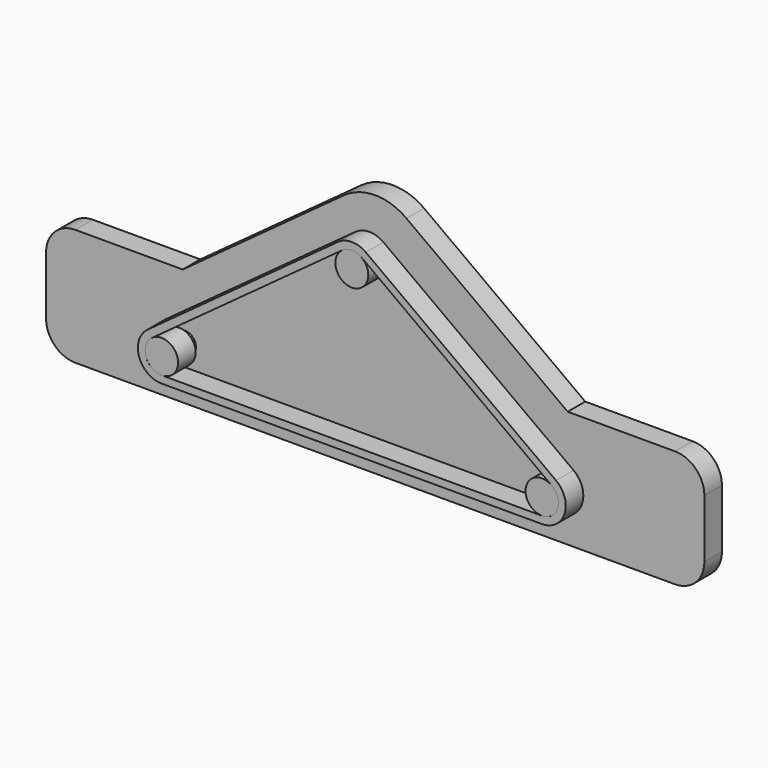
from build123d import *

# Parameters (mm, degrees)
F0_R     = 7.14375
F1_DEPTH = 9.525
F3_DEPTH = 9.525
F4_R     = 4.7625
F5_DEPTH = 12.7
F6_R     = 4.7625
F7_DEPTH = 9.525


with BuildPart() as f1:
    # F0 (on Front) → F1 (new body)
    with BuildSketch(Plane.XZ):
        with Locations((0, 60.325)):
            Circle(F0_R)
        with Locations((-82.55, 0)):
            Circle(F0_R)
        with Locations((82.55, 0)):
            Circle(F0_R)
    extrude(amount=F1_DEPTH)

    # F4 (on face) → F5 (join)
    with BuildSketch(Plane(origin=(0, 0, 0), x_dir=(-1, 0, 0), z_dir=(0, 1, 0))):
        with Locations((-82.55, 0)):
            Circle(F4_R)
        with Locations((82.55, 0)):
            Circle(F4_R)
        with Locations((0, 60.325)):
            Circle(F4_R)
    extrude(amount=F5_DEPTH)


with BuildPart() as f3:
    # F2 (on Front) → F3 (new body, through all)
    with BuildSketch(Plane.XZ):
        with BuildLine():
            Line((-6.088234, 68.656267), (-88.638234, 8.331267))
            ThreePointArc((-88.638234, 8.331267), (-92.359303, -3.202213), (-82.55, -10.31875))
            Line((-82.55, -10.31875), (82.55, -10.31875))
            ThreePointArc((82.55, -10.31875), (92.359303, -3.202213), (88.638234, 8.331267))
            Line((88.638234, 8.331267), (6.088234, 68.656267))
            ThreePointArc((6.088234, 68.656267), (0, 70.64375), (-6.088234, 68.656267))
        make_face()
        with BuildLine():
            ThreePointArc((-82.55, -7.14375), (-89.341056, -2.216917), (-86.764931, 5.7678))
            Line((-86.764931, 5.7678), (-4.214931, 66.0928))
            ThreePointArc((-4.214931, 66.0928), (0, 67.46875), (4.214931, 66.0928))
            Line((4.214931, 66.0928), (86.764931, 5.7678))
            ThreePointArc((86.764931, 5.7678), (89.341056, -2.216917), (82.55, -7.14375))
            Line((82.55, -7.14375), (-82.55, -7.14375))
        make_face(mode=Mode.SUBTRACT)
    extrude(amount=F3_DEPTH)


with BuildPart() as f7:
    # F6 (on face) → F7 (new body)
    with BuildSketch(Plane(origin=(0, 12.7, 0), x_dir=(-1, 0, 0), z_dir=(0, 1, 0))):
        with BuildLine():
            ThreePointArc((-142.875, -10.31875), (-139.155256, -19.299006), (-130.175, -23.01875))
            Line((-130.175, -23.01875), (130.175, -23.01875))
            ThreePointArc((130.175, -23.01875), (139.155256, -19.299006), (142.875, -10.31875))
            Line((142.875, -10.31875), (142.875, 15.08125))
            ThreePointArc((142.875, 15.08125), (139.155256, 24.061506), (130.175, 27.78125))
            Line((130.175, 27.78125), (83.547286, 27.78125))
            Line((83.547286, 27.78125), (13.581444, 78.910134))
            ThreePointArc((13.581444, 78.910134), (0, 83.34375), (-13.581444, 78.910134))
            Line((-13.581444, 78.910134), (-83.547286, 27.78125))
            Line((-83.547286, 27.78125), (-130.175, 27.78125))
            ThreePointArc((-130.175, 27.78125), (-139.155256, 24.061506), (-142.875, 15.08125))
            Line((-142.875, 15.08125), (-142.875, -10.31875))
        make_face()
        with Locations((-82.55, 0)):
            Circle(F6_R, mode=Mode.SUBTRACT)
        with Locations((82.55, 0)):
            Circle(F6_R, mode=Mode.SUBTRACT)
        with Locations((0, 60.325)):
            Circle(F6_R, mode=Mode.SUBTRACT)
        with BuildLine():
            ThreePointArc((-142.875, -10.31875), (-139.155256, -19.299006), (-130.175, -23.01875))
            Line((-130.175, -23.01875), (130.175, -23.01875))
            ThreePointArc((130.175, -23.01875), (139.155256, -19.299006), (142.875, -10.31875))
            Line((142.875, -10.31875), (142.875, 15.08125))
            ThreePointArc((142.875, 15.08125), (139.155256, 24.061506), (130.175, 27.78125))
            Line((130.175, 27.78125), (83.547286, 27.78125))
            Line((83.547286, 27.78125), (13.581444, 78.910134))
            ThreePointArc((13.581444, 78.910134), (0, 83.34375), (-13.581444, 78.910134))
            Line((-13.581444, 78.910134), (-83.547286, 27.78125))
            Line((-83.547286, 27.78125), (-130.175, 27.78125))
            ThreePointArc((-130.175, 27.78125), (-139.155256, 24.061506), (-142.875, 15.08125))
            Line((-142.875, 15.08125), (-142.875, -10.31875))
        make_face()
        with Locations((-82.55, 0)):
            Circle(F6_R, mode=Mode.SUBTRACT)
        with Locations((82.55, 0)):
            Circle(F6_R, mode=Mode.SUBTRACT)
        with Locations((0, 60.325)):
            Circle(F6_R, mode=Mode.SUBTRACT)
    extrude(amount=-F7_DEPTH)


solid = Compound([f1.part, f3.part, f7.part])
